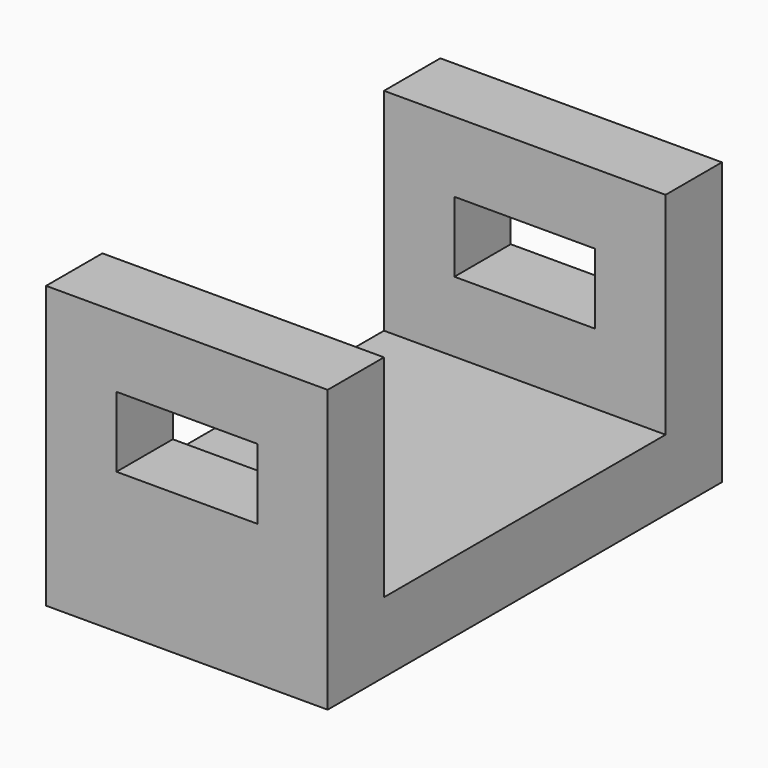
from build123d import *

# Parameters (mm, degrees)
F1_DEPTH = 50.8
F2_W     = 25.4
F2_H     = 12.7
F3_DEPTH = 88.9


with BuildPart() as f1:
    # F0 (on Right) → F1 (new body)
    with BuildSketch(Plane.YZ):
        Polygon((98.784957, 35.750121), (86.084957, 35.750121), (86.084957, -2.349879), (22.584957, -2.349879), (22.584957, 35.750121), (9.884957, 35.750121), (9.884957, -15.049879), (22.584957, -15.049879), (86.084957, -15.049879), (98.784957, -15.049879), align=None)
    extrude(amount=F1_DEPTH)

    # F2 (on face) → F3 (cut)
    with BuildSketch(Plane(origin=(0, 98.784957, 0), x_dir=(-1, 0, 0), z_dir=(0, 1, 0))):
        with Locations((-25.4, 16.700121)):
            Rectangle(F2_W, F2_H)
    extrude(amount=-F3_DEPTH, mode=Mode.SUBTRACT)


solid = f1.part
